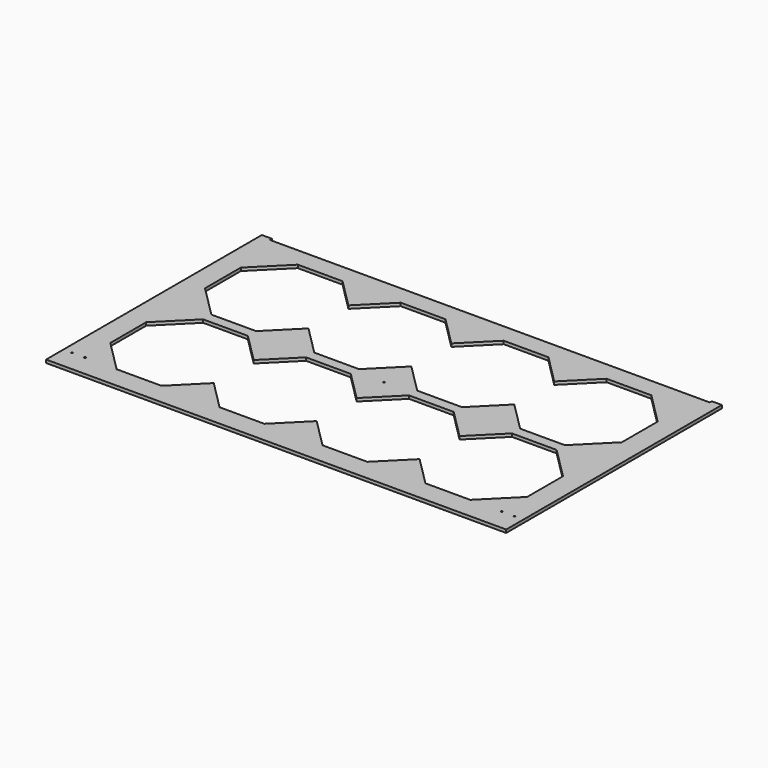
from build123d import *

# Parameters (mm, degrees)
F0_R     = 1.5
F1_DEPTH = 6
F2_R     = 1.5
F3_DEPTH = 25


with BuildPart() as f1:
    # F0 (on Top) → F1 (new body)
    with BuildSketch(Plane.XY):
        Polygon((-127.5, 147), (-147, 147), (-147, -377), (747, -377), (747, 147), (727.5, 147), (727.5, 142), (705, 142), (-105, 142), (-127.5, 142), align=None)
        Polygon((43.492424, -335), (-43.492424, -335), (-105, -273.492424), (-105, -186.507576), (-43.492424, -125), (43.492424, -125), (100, -181.507576), (156.507576, -125), (243.492424, -125), (300, -181.507576), (356.507576, -125), (443.492424, -125), (500, -181.507576), (556.507576, -125), (643.492424, -125), (705, -186.507576), (705, -273.492424), (643.492424, -335), (556.507576, -335), (500, -278.492424), (443.492424, -335), (356.507576, -335), (300, -278.492424), (243.492424, -335), (156.507576, -335), (100, -278.492424), align=None, mode=Mode.SUBTRACT)
        with Locations((300, -115)):
            Circle(F0_R, mode=Mode.SUBTRACT)
        Polygon((43.492424, 105), (100, 48.492424), (156.507576, 105), (243.492424, 105), (300, 48.492424), (356.507576, 105), (443.492424, 105), (500, 48.492424), (556.507576, 105), (643.492424, 105), (705, 43.492424), (705, -43.492424), (643.492424, -105), (556.507576, -105), (500, -48.492424), (443.492424, -105), (356.507576, -105), (300, -48.492424), (243.492424, -105), (156.507576, -105), (100, -48.492424), (43.492424, -105), (-43.492424, -105), (-105, -43.492424), (-105, 43.492424), (-43.492424, 105), align=None, mode=Mode.SUBTRACT)
    extrude(amount=F1_DEPTH)

    # F2 (on face) → F3 (cut)
    with BuildSketch(Plane.XY.offset(6)):
        with Locations((-105, -335)):
            Circle(F2_R)
        with Locations((-130, -335)):
            Circle(F2_R)
        with Locations((705, -335)):
            Circle(F2_R)
        with Locations((730, -335)):
            Circle(F2_R)
    extrude(amount=-F3_DEPTH, mode=Mode.SUBTRACT)


solid = f1.part
